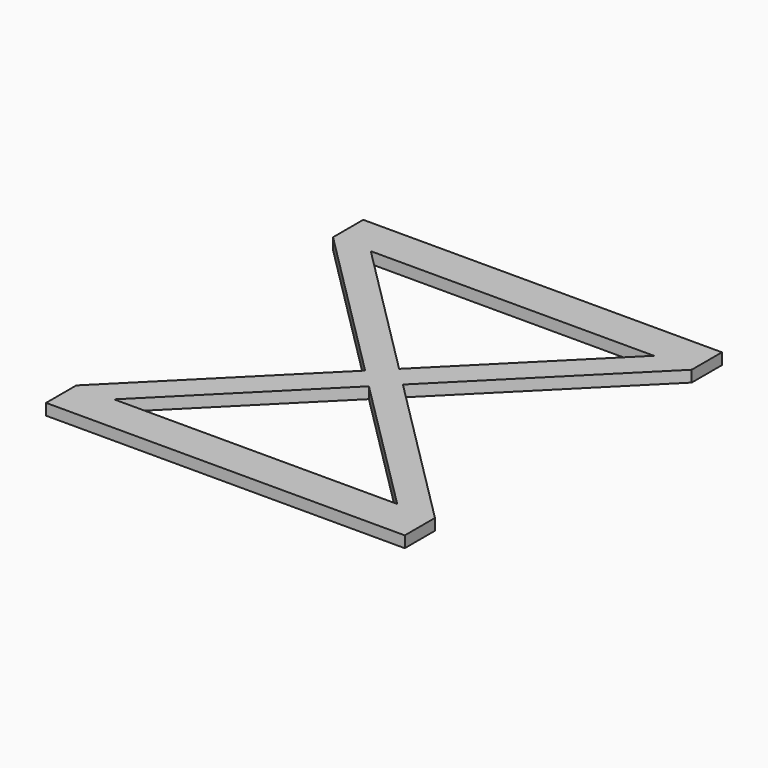
from build123d import *

# Parameters (mm, degrees)
PAD_DEPTH = 3


with BuildPart() as part:
    # Sketch → Pad (new body)
    with BuildSketch(Plane.XY):
        Polygon((0, 0), (95, 0), (95, 10), (52.5, 52.5), (95, 95), (95, 105), (0, 105), (0, 95), (42.5, 52.5), (0, 10), align=None)
        Polygon((85, 95), (10, 95), (47.5, 57.5), align=None, mode=Mode.SUBTRACT)
        Polygon((10, 10), (85, 10), (47.5, 47.5), align=None, mode=Mode.SUBTRACT)
    extrude(amount=PAD_DEPTH)


solid = part.part
